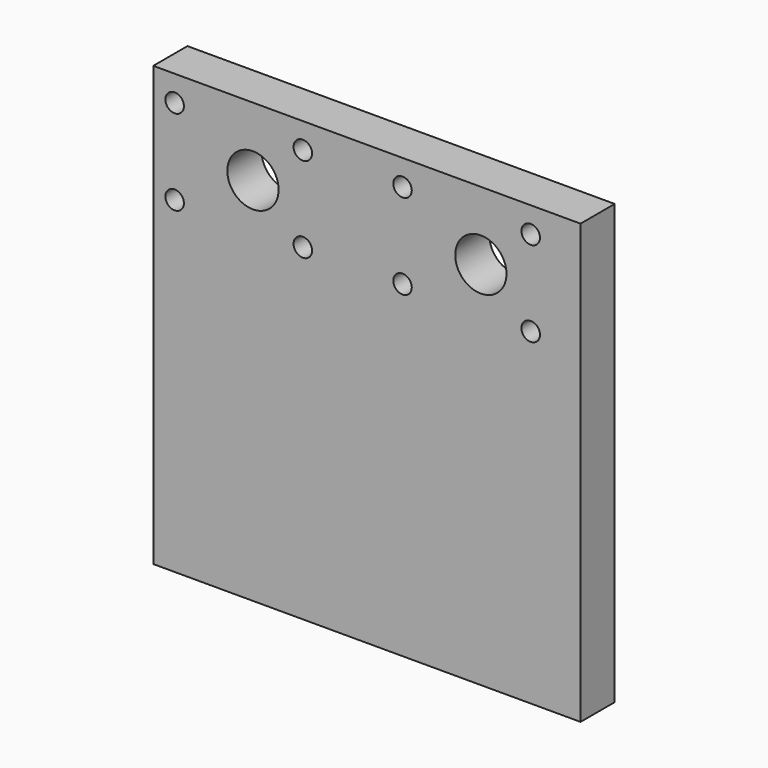
from build123d import *

# Parameters (mm, degrees)
F0_W     = 150
F0_H     = 154
F0_R     = 3.25
F0_R_2   = 9
F1_DEPTH = 15


with BuildPart() as f1:
    # F0 (on Front) → F1 (new body)
    with BuildSketch(Plane.XZ):
        with Locations((46, 43)):
            Rectangle(F0_W, F0_H)
        with Locations((-21.5, 81)):
            Circle(F0_R, mode=Mode.SUBTRACT)
        with Locations((23.5, 81)):
            Circle(F0_R, mode=Mode.SUBTRACT)
        with Locations((6, 96)):
            Circle(F0_R_2, mode=Mode.SUBTRACT)
        with Locations((-21.5, 111)):
            Circle(F0_R, mode=Mode.SUBTRACT)
        with Locations((23.5, 111)):
            Circle(F0_R, mode=Mode.SUBTRACT)
        with Locations((58.5, 81)):
            Circle(F0_R, mode=Mode.SUBTRACT)
        with Locations((103.5, 81)):
            Circle(F0_R, mode=Mode.SUBTRACT)
        with Locations((58.5, 111)):
            Circle(F0_R, mode=Mode.SUBTRACT)
        with Locations((86, 96)):
            Circle(F0_R_2, mode=Mode.SUBTRACT)
        with Locations((103.5, 111)):
            Circle(F0_R, mode=Mode.SUBTRACT)
    extrude(amount=F1_DEPTH)


solid = f1.part
